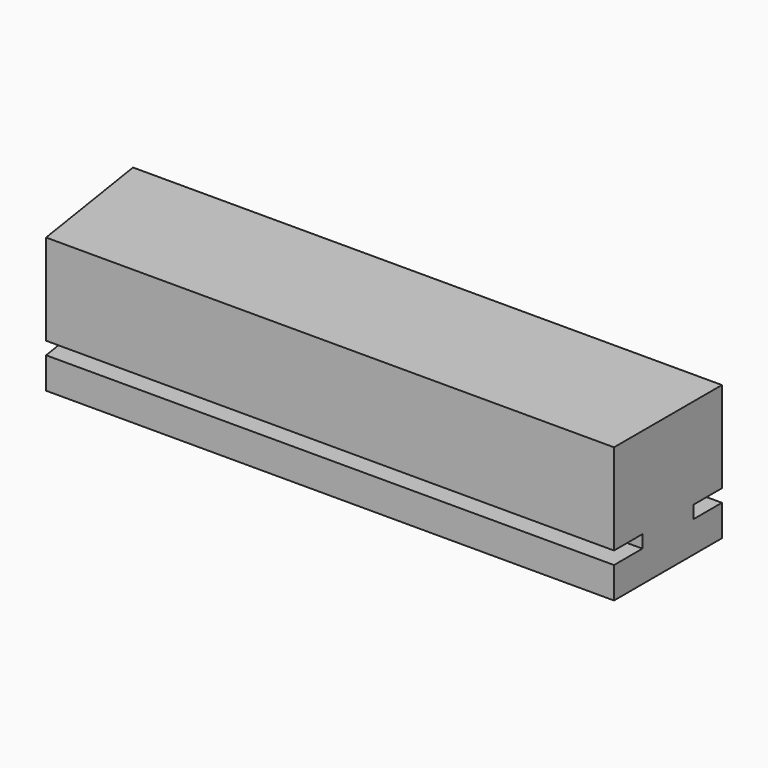
from build123d import *

# Parameters (mm, degrees)
F0_W     = 40
F0_H     = 9.5
F1_DEPTH = 9.5
F2_W     = 2.5
F2_H     = 0.9
F3_DEPTH = 50


with BuildPart() as f1:
    # F0 (on Top) → F1 (new body)
    with BuildSketch(Plane.XY):
        with Locations((-15.471879, 19.454451)):
            Rectangle(F0_W, F0_H)
        Polygon((-35.471879, 14.704451), (-35.471879, 24.204451), (-36.949879, 24.204451), align=None)
    extrude(amount=F1_DEPTH)

    # F2 (on face) → F3 (cut)
    with BuildSketch(Plane.YZ.offset(4.528121)):
        with Locations((15.954451, 2.65)):
            Rectangle(F2_W, F2_H)
        with Locations((22.954451, 2.65)):
            Rectangle(F2_W, F2_H)
    extrude(amount=-F3_DEPTH, mode=Mode.SUBTRACT)


solid = f1.part
